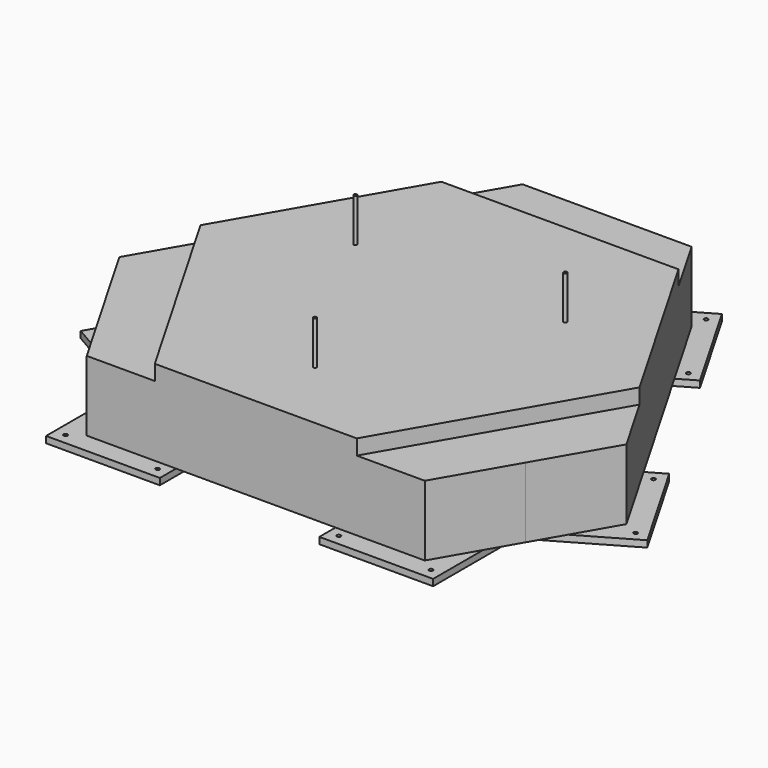
from build123d import *

# Parameters (mm, degrees)
F1_DEPTH = 394
F3_DEPTH = 70
F4_W     = 525
F4_H     = 415
F4_R     = 9
F5_DEPTH = 30
F6_R     = 7.5
F7_DEPTH = 200


with BuildPart() as f1:
    # F0 (on Top) → F1 (new body)
    with BuildSketch(Plane.XY):
        Polygon((390, 1125.833025), (0, 1125.833025), (-390, 1125.833025), (-780, 450.33321), (-1170, -225.166605), (-975, -562.916512), (-780, -900.66642), (0, -900.66642), (780, -900.66642), (975, -562.916512), (1170, -225.166605), (780, 450.33321), align=None)
    extrude(amount=F1_DEPTH)

    # F2 (on face) → F3 (cut)
    with BuildSketch(Plane.XY.offset(394)):
        Polygon((390, 1125.833025), (-390, 1125.833025), (-547, 853.901048), (547, 853.901048), align=None)
        Polygon((1170, -225.166605), (1013, 46.765372), (466, -900.66642), (780, -900.66642), align=None)
        Polygon((-780, -900.66642), (-466, -900.66642), (-1013, 46.765372), (-1170, -225.166605), align=None)
    extrude(amount=-F3_DEPTH, mode=Mode.SUBTRACT)

    # F4 (on face) → F5 (join)
    with BuildSketch(Plane(origin=(0, 0, 0), x_dir=(1, 0, 0), z_dir=(0, 0, -1))):
        with Locations((630.5, 786.46039)):
            Rectangle(F4_W, F4_H)
        with Locations((418, 628.96039)):
            Circle(F4_R, mode=Mode.SUBTRACT)
        with Locations((418, 943.96039)):
            Circle(F4_R, mode=Mode.SUBTRACT)
        with Locations((843, 628.96039)):
            Circle(F4_R, mode=Mode.SUBTRACT)
        with Locations((843, 943.96039)):
            Circle(F4_R, mode=Mode.SUBTRACT)
        with Locations((-630.5, 786.46039)):
            Rectangle(F4_W, F4_H)
        with Locations((-843, 628.96039)):
            Circle(F4_R, mode=Mode.SUBTRACT)
        with Locations((-843, 943.96039)):
            Circle(F4_R, mode=Mode.SUBTRACT)
        with Locations((-418, 628.96039)):
            Circle(F4_R, mode=Mode.SUBTRACT)
        with Locations((-418, 943.96039)):
            Circle(F4_R, mode=Mode.SUBTRACT)
        Polygon((-54.894405, -1062.84088), (-317.394405, -608.177543), (-676.794948, -815.677543), (-414.294948, -1270.34088), align=None)
        with Locations((-395.993678, -1202.03961)):
            Circle(F4_R, mode=Mode.SUBTRACT)
        with Locations((-123.195675, -1044.53961)):
            Circle(F4_R, mode=Mode.SUBTRACT)
        with Locations((-608.493678, -833.978814)):
            Circle(F4_R, mode=Mode.SUBTRACT)
        with Locations((-335.695675, -676.478814)):
            Circle(F4_R, mode=Mode.SUBTRACT)
        Polygon((-1044.794948, -178.282846), (-685.394405, 29.217154), (-947.894405, 483.880491), (-1307.294948, 276.380491), align=None)
        with Locations((-1026.493678, -109.981576)):
            Circle(F4_R, mode=Mode.SUBTRACT)
        with Locations((-753.695675, 47.518424)):
            Circle(F4_R, mode=Mode.SUBTRACT)
        with Locations((-1238.993678, 258.079221)):
            Circle(F4_R, mode=Mode.SUBTRACT)
        with Locations((-966.195675, 415.579221)):
            Circle(F4_R, mode=Mode.SUBTRACT)
        Polygon((676.794948, -815.677543), (317.394405, -608.177543), (54.894405, -1062.84088), (414.294948, -1270.34088), align=None)
        with Locations((123.195675, -1044.53961)):
            Circle(F4_R, mode=Mode.SUBTRACT)
        with Locations((395.993678, -1202.03961)):
            Circle(F4_R, mode=Mode.SUBTRACT)
        with Locations((608.493678, -833.978814)):
            Circle(F4_R, mode=Mode.SUBTRACT)
        with Locations((335.695675, -676.478814)):
            Circle(F4_R, mode=Mode.SUBTRACT)
        Polygon((947.894405, 483.880491), (685.394405, 29.217154), (1044.794948, -178.282846), (1307.294948, 276.380491), align=None)
        with Locations((753.695675, 47.518424)):
            Circle(F4_R, mode=Mode.SUBTRACT)
        with Locations((1026.493678, -109.981576)):
            Circle(F4_R, mode=Mode.SUBTRACT)
        with Locations((966.195675, 415.579221)):
            Circle(F4_R, mode=Mode.SUBTRACT)
        with Locations((1238.993678, 258.079221)):
            Circle(F4_R, mode=Mode.SUBTRACT)
    extrude(amount=F5_DEPTH)

    # F6 (on face) → F7 (join)
    with BuildSketch(Plane.XY.offset(394)):
        with Locations((0, -559)):
            Circle(F6_R)
        with Locations((-484.108201, 279.5)):
            Circle(F6_R)
        with Locations((484.108201, 279.5)):
            Circle(F6_R)
    extrude(amount=F7_DEPTH)


solid = f1.part
